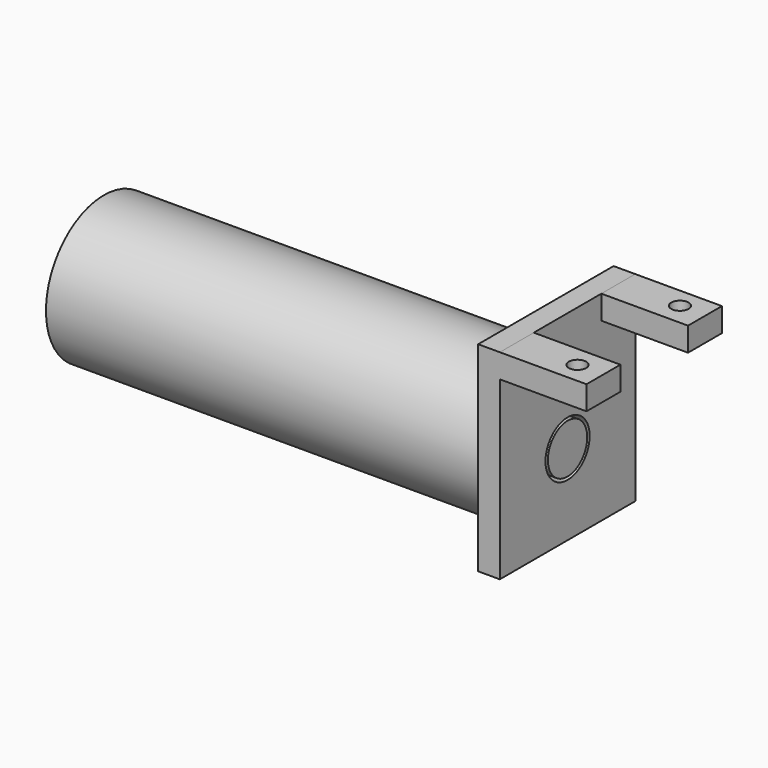
from build123d import *

# Parameters (mm, degrees)
F0_R            = 16.718896
F1_DEPTH        = 100
F2_R            = 5.678024
F3_DEPTH        = 7
F4_W            = 39.06738
F4_H            = 46.14258
F4_R            = 6.367752
F5_DEPTH        = 5
F6_W            = 9.783276
F6_H            = 5.504621
F7_DEPTH        = 20
F9_D            = 4
F9_CSINK_D      = 6
F9_CSINK_ANGLE  = 90
F10_D           = 4
F10_CSINK_D     = 6
F10_CSINK_ANGLE = 90


with BuildPart() as f1:
    # F0 (on Right) → F1 (new body)
    with BuildSketch(Plane.YZ):
        Circle(F0_R)
    extrude(amount=F1_DEPTH)

    # F2 (on face) → F3 (join)
    with BuildSketch(Plane.YZ.offset(100)):
        Circle(F2_R)
    extrude(amount=F3_DEPTH)


with BuildPart() as f5:
    # F4 (on face) → F5 (new body)
    with BuildSketch(Plane.YZ.offset(107)):
        with Locations((0, 4.460449)):
            Rectangle(F4_W, F4_H)
        Circle(F4_R, mode=Mode.SUBTRACT)
    extrude(amount=-F5_DEPTH)

    # F6 (on face) → F7 (join)
    with BuildSketch(Plane.YZ.offset(107)):
        with Locations((-14.642052, 24.779428)):
            Rectangle(F6_W, F6_H)
        with Locations((14.642052, 24.779428)):
            Rectangle(F6_W, F6_H)
    extrude(amount=F7_DEPTH)

    # F9 (through all)
    with Locations(Plane(origin=(0, 0, 22.027118), x_dir=(1, 0, 0), z_dir=(0, 0, -1))):
        with Locations((121, 14.642052)):
            CounterSinkHole(F9_D / 2, F9_CSINK_D / 2, counter_sink_angle=F9_CSINK_ANGLE)

    # F10 (through all)
    with Locations(Plane(origin=(0, 0, 22.027118), x_dir=(1, 0, 0), z_dir=(0, 0, -1))):
        with Locations((121, -14.910832)):
            CounterSinkHole(F10_D / 2, F10_CSINK_D / 2, counter_sink_angle=F10_CSINK_ANGLE)


solid = Compound([f1.part, f5.part])
